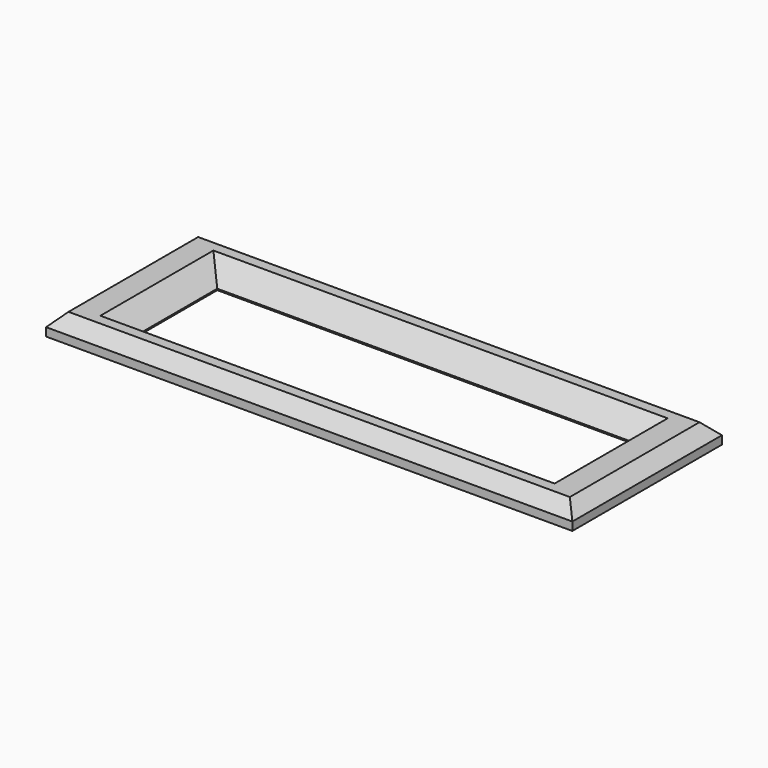
from build123d import *

# Parameters (mm, degrees)
F0_W     = 76
F0_H     = 27
F0_W_2   = 60
F0_H_2   = 14.8
F1_DEPTH = 3
F2_SIZE  = 2.8
F3_SIZE  = 1.8


with BuildPart() as f1:
    # F0 (on Top) → F1 (new body)
    with BuildSketch(Plane.XY):
        Rectangle(F0_W, F0_H)
        Rectangle(F0_W_2, F0_H_2, mode=Mode.SUBTRACT)
    extrude(amount=F1_DEPTH)

    # F2
    f2_edges = [f1.edges().sort_by_distance(p)[0] for p in [
        (0, 7.4, 3),
        (30, 0, 3),
        (0, -7.4, 3),
        (-30, 0, 3),
    ]]
    chamfer(f2_edges, length=F2_SIZE)

    # F3
    f3_edges = [f1.edges().sort_by_distance(p)[0] for p in [
        (0, 13.5, 3),
        (-38, 0, 3),
        (0, -13.5, 3),
        (38, 0, 3),
    ]]
    chamfer(f3_edges, length=F3_SIZE)


solid = f1.part
